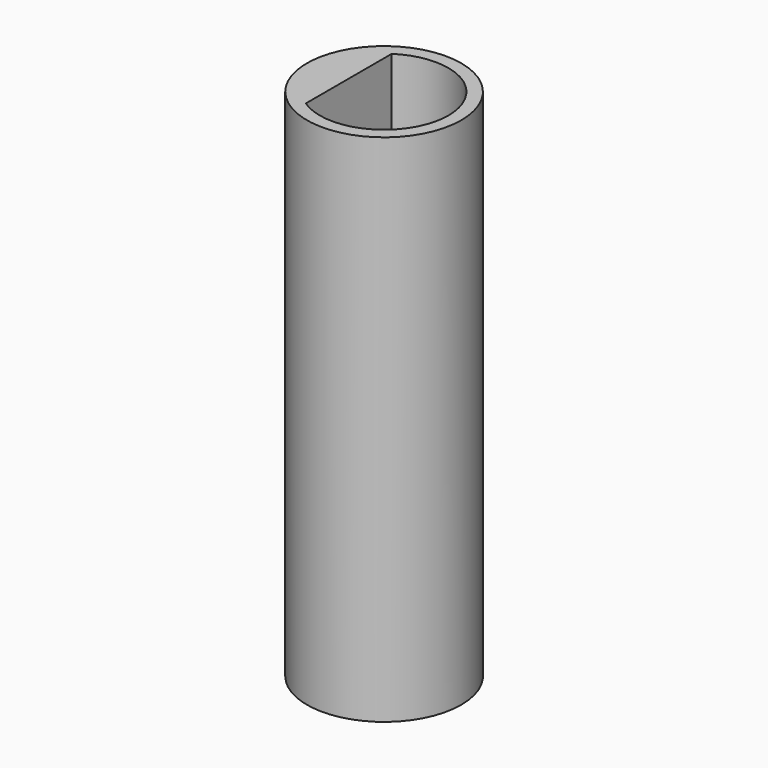
from build123d import *

# Parameters (mm, degrees)
F0_R     = 12
F1_DEPTH = 80


with BuildPart() as f1:
    # F0 (on Top) → F1 (new body)
    with BuildSketch(Plane.XY):
        Circle(F0_R)
        with BuildLine():
            ThreePointArc((-5.5, 8.351647), (4.743416, 8.803408), (10, 0))
            ThreePointArc((10, 0), (4.743416, -8.803408), (-5.5, -8.351647))
            ThreePointArc((-5.5, -8.351647), (-10, 0), (-5.5, 8.351647))
        make_face(mode=Mode.SUBTRACT)
        with BuildLine():
            Line((-5.5, -8.351647), (-5.5, 8.351647))
            ThreePointArc((-5.5, 8.351647), (-10, 0), (-5.5, -8.351647))
        make_face()
    extrude(amount=F1_DEPTH)


solid = f1.part
